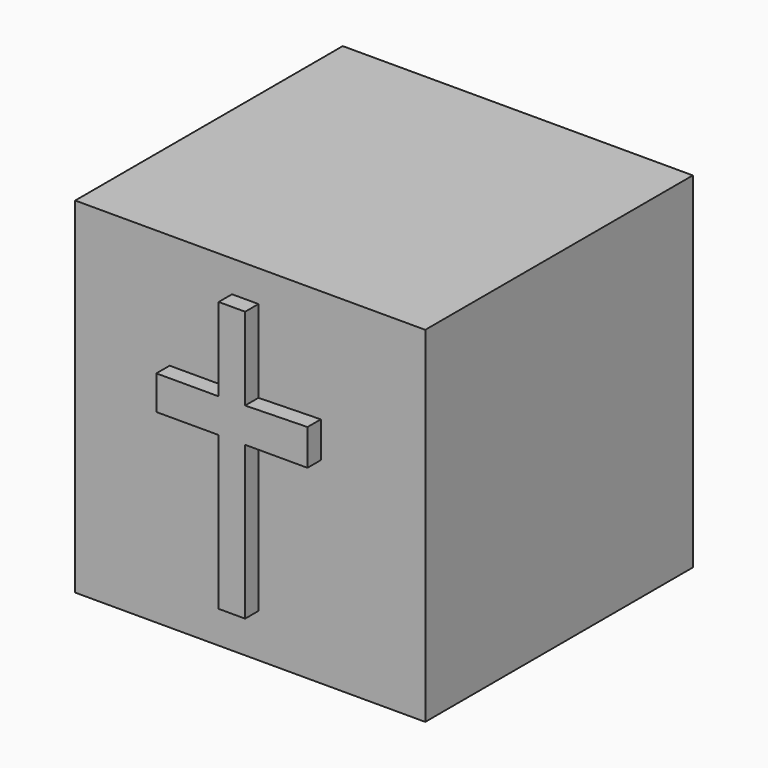
from build123d import *

# Parameters (mm, degrees)
F0_W     = 53.322375752
F0_H     = 50.9416181594
F1_DEPTH = 52.578
F2_W     = 9.497590363
F2_H     = 5.180504173
F2_W_2   = 4.0292814374
F2_H_2   = 23.3122664504
F3_DEPTH = 2.54


with BuildPart() as f1:
    # F0 (on Top) → F1 (new body)
    with BuildSketch(Plane.XY):
        with Locations((-49.3195350282, 50.2221053466)):
            Rectangle(F0_W, F0_H)
    extrude(amount=F1_DEPTH)

    # F2 (on face) → F3 (join)
    with BuildSketch(Plane.XZ.offset(-24.7512962669)):
        with Locations((-56.8416379392, 32.5220506638)):
            Rectangle(F2_W, F2_H)
        Polygon((-48.0635613203, 35.1980318357), (-52.0928427577, 35.1123027503), (-52.0928427577, 29.9317985773), (-48.0635613203, 29.9317985773), align=None)
        Polygon((-38.5659709573, 35.4001075029), (-48.0635613203, 35.1980318357), (-48.0635613203, 29.9317985773), (-38.5659709573, 29.9317985773), align=None)
        with Locations((-50.078202039, 18.2756653521)):
            Rectangle(F2_W_2, F2_H_2)
        Polygon((-48.0635613203, 47.7757565677), (-52.0928427577, 47.7757565677), (-52.0928427577, 35.1123027503), (-48.0635613203, 35.1980318357), align=None)
    extrude(amount=F3_DEPTH)


solid = f1.part
